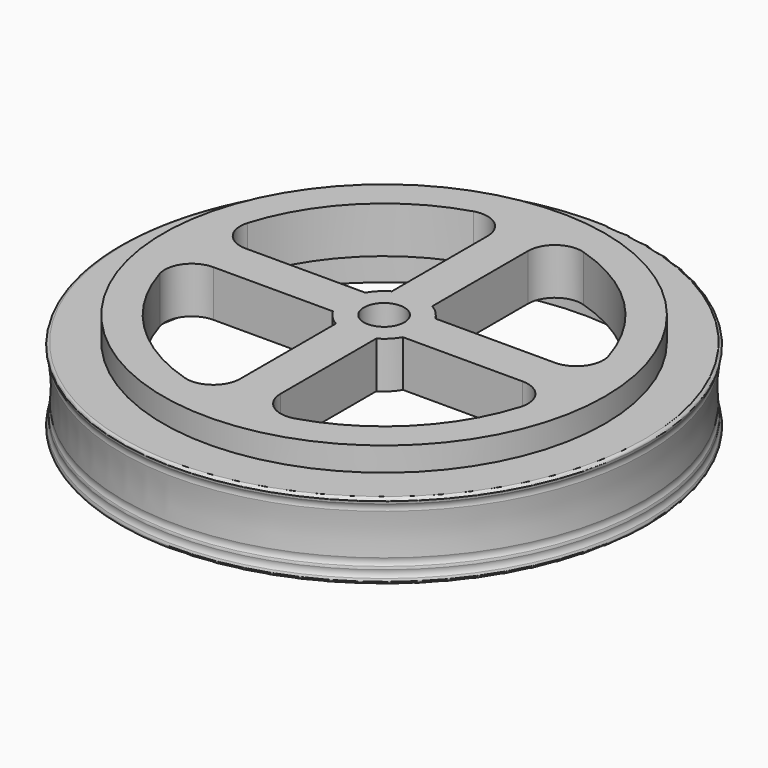
from build123d import *

# Parameters (mm, degrees)
F1_D     = 7.5
F6_DEPTH = 56.015512
F7_R     = 46
F7_R_2   = 3.75
F2_DEPTH = 10


with BuildPart() as f5:
    # F4 (on Front) → F5 (revolve)
    with BuildSketch(Plane.XZ):
        with BuildLine():
            Line((0, 4.45), (0, -14.164552))
            Line((0, -14.164552), (48.5, -14.164552))
            ThreePointArc((48.5, -14.164552), (48.853553, -14.018106), (49, -13.664552))
            ThreePointArc((49, -13.664552), (48.949039, -13.419799), (48.900011, -13.174652))
            ThreePointArc((48.900011, -13.174652), (48.630694, -12.543302), (48.670812, -11.858083))
            ThreePointArc((48.670812, -11.858083), (48.633742, -11.608227), (48.598665, -11.358083))
            ThreePointArc((48.598665, -11.358083), (48.366471, -10.712157), (48.446319, -10.030424))
            ThreePointArc((48.446319, -10.030424), (48.322268, -6.161579), (48.670812, -2.306469))
            ThreePointArc((48.670812, -2.306469), (48.630694, -1.62125), (48.900011, -0.9899))
            ThreePointArc((48.900011, -0.9899), (48.949039, -0.744753), (49, -0.5))
            ThreePointArc((49, -0.5), (48.853553, -0.146447), (48.5, 0))
            Line((48.5, 0), (41, 0))
            Line((41, 0), (41, 4.45))
            Line((41, 4.45), (0, 4.45))
        make_face()
    revolve(axis=Axis((0, 0, -4.857276), (0, 0, -1)))

    # F1 (through all)
    with Locations(Plane.XY.offset(4.45)):
        with Locations((0, 0)):
            Hole(F1_D / 2)

    # F0 (on face) → F6 (cut)
    with BuildSketch(Plane.XY.offset(4.45)):
        with BuildLine():
            ThreePointArc((-3.75, 28.695601), (-5.774405, 32.713789), (-10.208333, 33.478201))
            ThreePointArc((-10.208333, 33.478201), (-24.748737, 24.748737), (-33.478201, 10.208333))
            ThreePointArc((-33.478201, 10.208333), (-32.713789, 5.774405), (-28.695601, 3.75))
            Line((-28.695601, 3.75), (-6.495191, 3.75))
            ThreePointArc((-6.495191, 3.75), (-5.303301, 5.303301), (-3.75, 6.495191))
            Line((-3.75, 6.495191), (-3.75, 28.695601))
        make_face()
        with BuildLine():
            Line((-3.75, -28.695601), (-3.75, -6.495191))
            ThreePointArc((-3.75, -6.495191), (-5.303301, -5.303301), (-6.495191, -3.75))
            Line((-6.495191, -3.75), (-28.695601, -3.75))
            ThreePointArc((-28.695601, -3.75), (-32.713789, -5.774405), (-33.478201, -10.208333))
            ThreePointArc((-33.478201, -10.208333), (-24.748737, -24.748737), (-10.208333, -33.478201))
            ThreePointArc((-10.208333, -33.478201), (-5.774405, -32.713789), (-3.75, -28.695601))
        make_face()
        with BuildLine():
            ThreePointArc((33.478201, -10.208333), (32.713789, -5.774405), (28.695601, -3.75))
            Line((28.695601, -3.75), (6.495191, -3.75))
            ThreePointArc((6.495191, -3.75), (5.303301, -5.303301), (3.75, -6.495191))
            Line((3.75, -6.495191), (3.75, -28.695601))
            ThreePointArc((3.75, -28.695601), (5.774405, -32.713789), (10.208333, -33.478201))
            ThreePointArc((10.208333, -33.478201), (24.748737, -24.748737), (33.478201, -10.208333))
        make_face()
        with BuildLine():
            ThreePointArc((10.208333, 33.478201), (5.774405, 32.713789), (3.75, 28.695601))
            Line((3.75, 28.695601), (3.75, 6.495191))
            ThreePointArc((3.75, 6.495191), (5.303301, 5.303301), (6.495191, 3.75))
            Line((6.495191, 3.75), (28.695601, 3.75))
            ThreePointArc((28.695601, 3.75), (32.713789, 5.774405), (33.478201, 10.208333))
            ThreePointArc((33.478201, 10.208333), (24.748737, 24.748737), (10.208333, 33.478201))
        make_face()
    extrude(amount=-F6_DEPTH, mode=Mode.SUBTRACT)

    # F7 (on face) → F2 (cut)
    with BuildSketch(Plane(origin=(0, 0, -14.164552), x_dir=(1, 0, 0), z_dir=(0, 0, -1))):
        Circle(F7_R)
        with BuildLine():
            ThreePointArc((-6.495191, -3.75), (-5.303301, -5.303301), (-3.75, -6.495191))
            Line((-3.75, -6.495191), (-3.75, -28.695601))
            ThreePointArc((-3.75, -28.695601), (-5.774405, -32.713789), (-10.208333, -33.478201))
            ThreePointArc((-10.208333, -33.478201), (-24.748737, -24.748737), (-33.478201, -10.208333))
            ThreePointArc((-33.478201, -10.208333), (-32.713789, -5.774405), (-28.695601, -3.75))
            Line((-28.695601, -3.75), (-6.495191, -3.75))
        make_face(mode=Mode.SUBTRACT)
        with BuildLine():
            ThreePointArc((33.478201, -10.208333), (24.748737, -24.748737), (10.208333, -33.478201))
            ThreePointArc((10.208333, -33.478201), (5.774405, -32.713789), (3.75, -28.695601))
            Line((3.75, -28.695601), (3.75, -6.495191))
            ThreePointArc((3.75, -6.495191), (5.303301, -5.303301), (6.495191, -3.75))
            Line((6.495191, -3.75), (28.695601, -3.75))
            ThreePointArc((28.695601, -3.75), (32.713789, -5.774405), (33.478201, -10.208333))
        make_face(mode=Mode.SUBTRACT)
        with BuildLine():
            ThreePointArc((-33.478201, 10.208333), (-24.748737, 24.748737), (-10.208333, 33.478201))
            ThreePointArc((-10.208333, 33.478201), (-5.774405, 32.713789), (-3.75, 28.695601))
            Line((-3.75, 28.695601), (-3.75, 6.495191))
            ThreePointArc((-3.75, 6.495191), (-5.303301, 5.303301), (-6.495191, 3.75))
            Line((-6.495191, 3.75), (-28.695601, 3.75))
            ThreePointArc((-28.695601, 3.75), (-32.713789, 5.774405), (-33.478201, 10.208333))
        make_face(mode=Mode.SUBTRACT)
        Circle(F7_R_2, mode=Mode.SUBTRACT)
        with BuildLine():
            ThreePointArc((10.208333, 33.478201), (24.748737, 24.748737), (33.478201, 10.208333))
            ThreePointArc((33.478201, 10.208333), (32.713789, 5.774405), (28.695601, 3.75))
            Line((28.695601, 3.75), (6.495191, 3.75))
            ThreePointArc((6.495191, 3.75), (5.303301, 5.303301), (3.75, 6.495191))
            Line((3.75, 6.495191), (3.75, 28.695601))
            ThreePointArc((3.75, 28.695601), (5.774405, 32.713789), (10.208333, 33.478201))
        make_face(mode=Mode.SUBTRACT)
    extrude(amount=-F2_DEPTH, mode=Mode.SUBTRACT)


solid = f5.part
